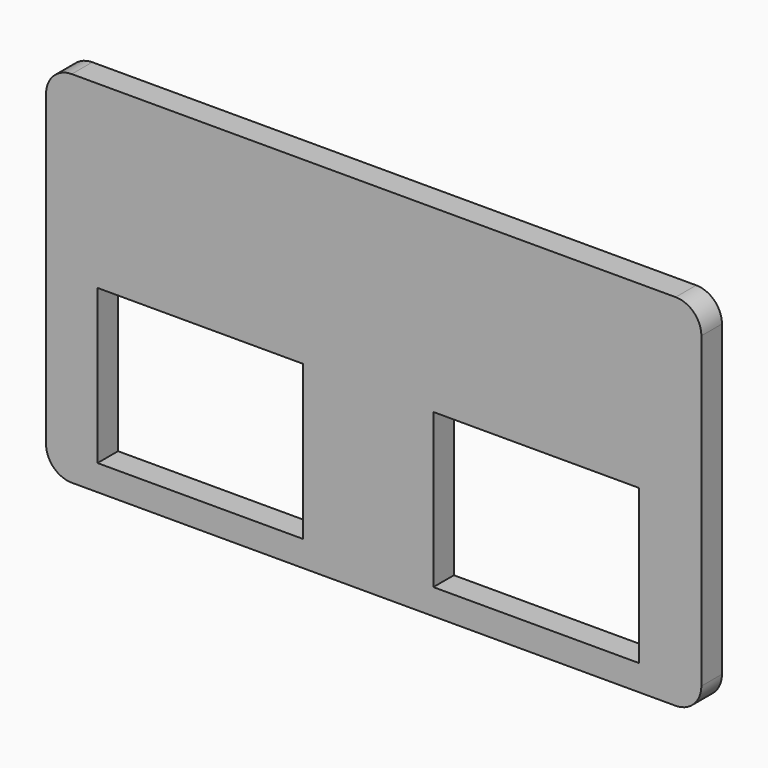
from build123d import *

# Parameters (mm, degrees)
F0_W     = 50.8
F0_H     = 38.1
F1_DEPTH = 6.35


with BuildPart() as f1:
    # F0 (on Front) → F1 (new body)
    with BuildSketch(Plane.XZ):
        with BuildLine():
            ThreePointArc((80.9625, 38.1), (79.102628, 42.590128), (74.6125, 44.45))
            Line((74.6125, 44.45), (-74.6125, 44.45))
            ThreePointArc((-74.6125, 44.45), (-79.102628, 42.590128), (-80.9625, 38.1))
            Line((-80.9625, 38.1), (-80.9625, -38.1))
            ThreePointArc((-80.9625, -38.1), (-79.102628, -42.590128), (-74.6125, -44.45))
            Line((-74.6125, -44.45), (74.6125, -44.45))
            ThreePointArc((74.6125, -44.45), (79.102628, -42.590128), (80.9625, -38.1))
            Line((80.9625, -38.1), (80.9625, 38.1))
        make_face()
        with Locations((-42.8625, -19.05)):
            Rectangle(F0_W, F0_H, mode=Mode.SUBTRACT)
        with Locations((40.133002, -19.05)):
            Rectangle(F0_W, F0_H, mode=Mode.SUBTRACT)
    extrude(amount=F1_DEPTH)


solid = f1.part
